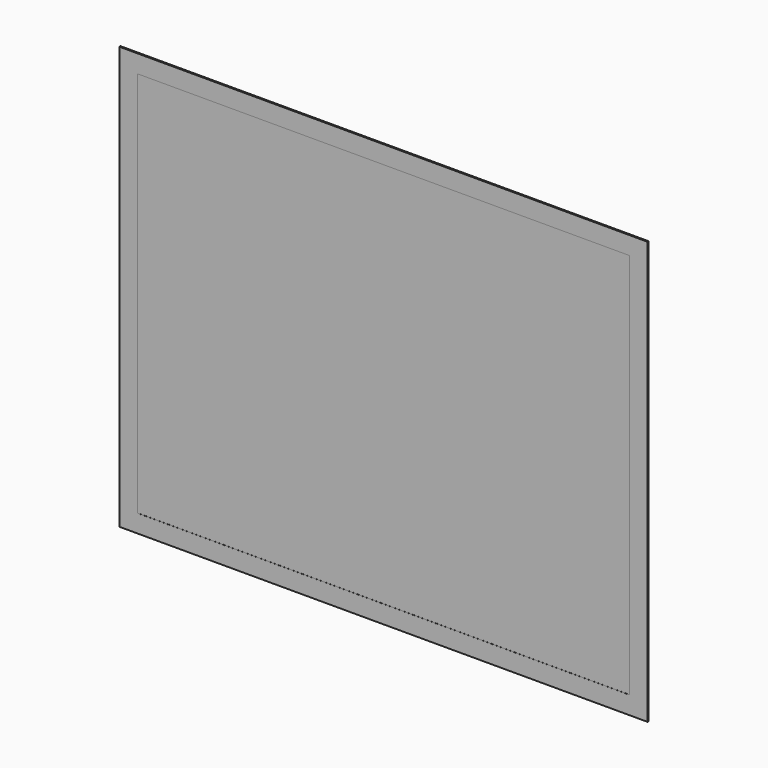
from build123d import *

# Parameters (mm, degrees)
F0_W     = 508
F0_H     = 406.4
F1_DEPTH = 0.635
F2_W     = 473.456
F2_H     = 371.856
F3_DEPTH = 0.0762


with BuildPart() as f1:
    # F0 (on Front) → F1 (new body, symmetric)
    with BuildSketch(Plane.XZ):
        Rectangle(F0_W, F0_H)
    extrude(amount=F1_DEPTH, both=True)

    # F2 (on face) → F3 (cut)
    with BuildSketch(Plane.XZ.offset(0.635)):
        Rectangle(F2_W, F2_H)
    extrude(amount=-F3_DEPTH, mode=Mode.SUBTRACT)


solid = f1.part
